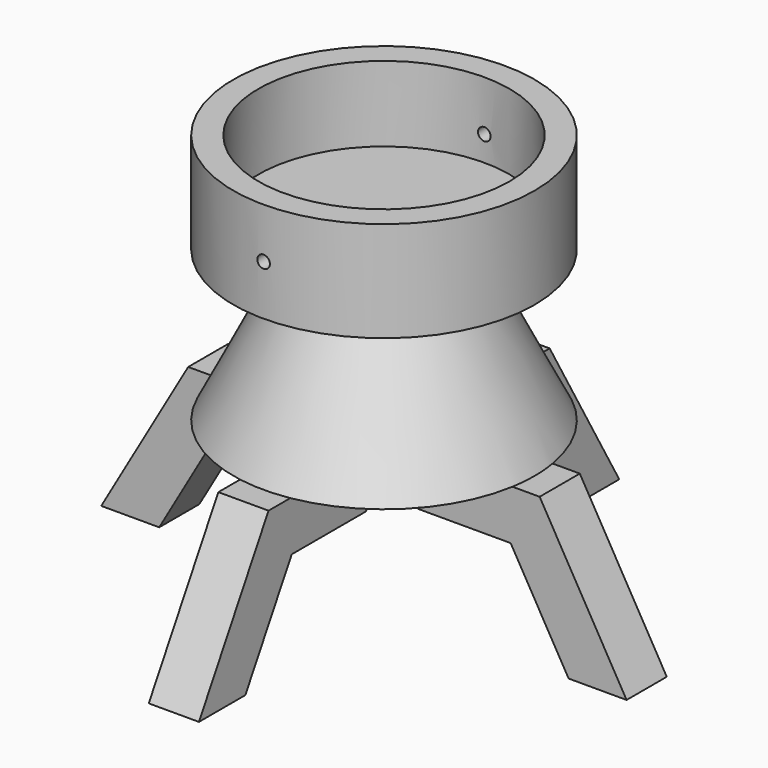
from build123d import *

# Parameters (mm, degrees)
F0_R      = 152.4
F0_R_2    = 127
F1_DEPTH  = 101.6
F2_R      = 127.018603898
F3_DEPTH  = 25.4
F5_R      = 6.35
F6_DEPTH  = 304.801
F9_R      = 152.4
F7_R      = 76.2
F13_DEPTH = 25.4
F15_DEPTH = 25.4


with BuildPart() as f1:
    # F0 (on Top) → F1 (new body)
    with BuildSketch(Plane.XY):
        Circle(F0_R)
        Circle(F0_R_2, mode=Mode.SUBTRACT)
    extrude(amount=F1_DEPTH)

    # F2 (on face) → F3 (join)
    with BuildSketch(Plane(origin=(0, 0, 0), x_dir=(1, 0, 0), z_dir=(0, 0, -1))):
        Circle(F2_R)
    extrude(amount=-F3_DEPTH)

    # F5 (on offset) → F6 (cut, through all)
    with BuildSketch(Plane.XZ.offset(152.4)):
        with Locations((0, 50.8)):
            Circle(F5_R)
    extrude(amount=-F6_DEPTH, mode=Mode.SUBTRACT)

    # F9 (on offset) → F10 section 0
    with BuildSketch(Plane(origin=(0, 0, -152.4), x_dir=(1, 0, 0), z_dir=(0, 0, -1))):
        Circle(F9_R)
    # F7 (on face) → F10 section 1
    with BuildSketch(Plane(origin=(0, 0, 0), x_dir=(1, 0, 0), z_dir=(0, 0, -1))):
        Circle(F7_R)
    loft()

    # F12 (on Front) → F13 (join, symmetric)
    with BuildSketch(Plane.XZ):
        Polygon((-177.8, -152.4), (-265.7881810245, -304.8), (-207.1293936748, -304.8), (-148.4706063252, -203.2), (-54.7293936748, -203.2), (-25.4, -152.4), align=None)
        Polygon((148.4706063252, -203.2), (207.1293936748, -304.8), (265.7881810245, -304.8), (177.8, -152.4), (25.4, -152.4), (54.7293936748, -203.2), align=None)
    extrude(amount=F13_DEPTH, both=True)

    # F14 (on Right) → F15 (join, symmetric)
    with BuildSketch(Plane.YZ):
        Polygon((-25.4, -152.4), (-177.8, -152.4), (-265.7881810245, -304.8), (-207.1293936748, -304.8), (-148.4706063252, -203.2), (-54.7293936748, -203.2), align=None)
        Polygon((265.7881810245, -304.8), (177.8, -152.4), (25.4, -152.4), (54.7293936748, -203.2), (148.4706063252, -203.2), (207.1293936748, -304.8), align=None)
    extrude(amount=F15_DEPTH, both=True)


solid = f1.part
